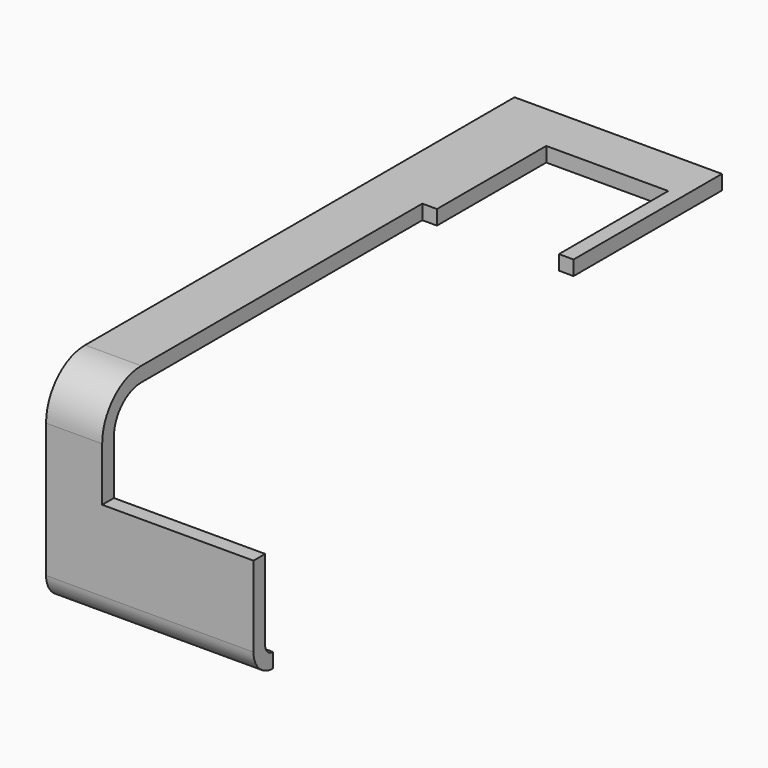
from build123d import *

# Parameters (mm, degrees)
F1_DEPTH = 42.5
F2_W     = 25
F2_H     = 21
F3_DEPTH = 110
F4_W     = 3
F4_H     = 21
F5_DEPTH = 82
F6_W     = 3
F6_H     = 21
F7_DEPTH = 82


with BuildPart() as f1:
    # F0 (on Right) → F1 (new body)
    with BuildSketch(Plane.YZ):
        with BuildLine():
            Line((120, -3), (120, 0))
            Line((120, 0), (10, 0))
            ThreePointArc((10, 0), (2.928932, -2.928932), (0, -10))
            Line((0, -10), (0, -37.5))
            ThreePointArc((0, -37.5), (1.464466, -41.035534), (5, -42.5))
            Line((5, -42.5), (5, -39.5))
            ThreePointArc((5, -39.5), (3.585786, -38.914214), (3, -37.5))
            Line((3, -37.5), (3, -10))
            ThreePointArc((3, -10), (5.050253, -5.050253), (10, -3))
            Line((10, -3), (120, -3))
        make_face()
    extrude(amount=F1_DEPTH)

    # F2 (on face) → F3 (cut)
    with BuildSketch(Plane.XZ):
        with Locations((27, -10.5)):
            Rectangle(F2_W, F2_H)
    extrude(amount=-F3_DEPTH, mode=Mode.SUBTRACT)

    # F4 (on face) → F5 (cut)
    with BuildSketch(Plane.XZ):
        with Locations((13, -10.5)):
            Rectangle(F4_W, F4_H)
    extrude(amount=-F5_DEPTH, mode=Mode.SUBTRACT)

    # F6 (on face) → F7 (cut)
    with BuildSketch(Plane.XZ):
        with Locations((41, -10.5)):
            Rectangle(F6_W, F6_H)
    extrude(amount=-F7_DEPTH, mode=Mode.SUBTRACT)


solid = f1.part
